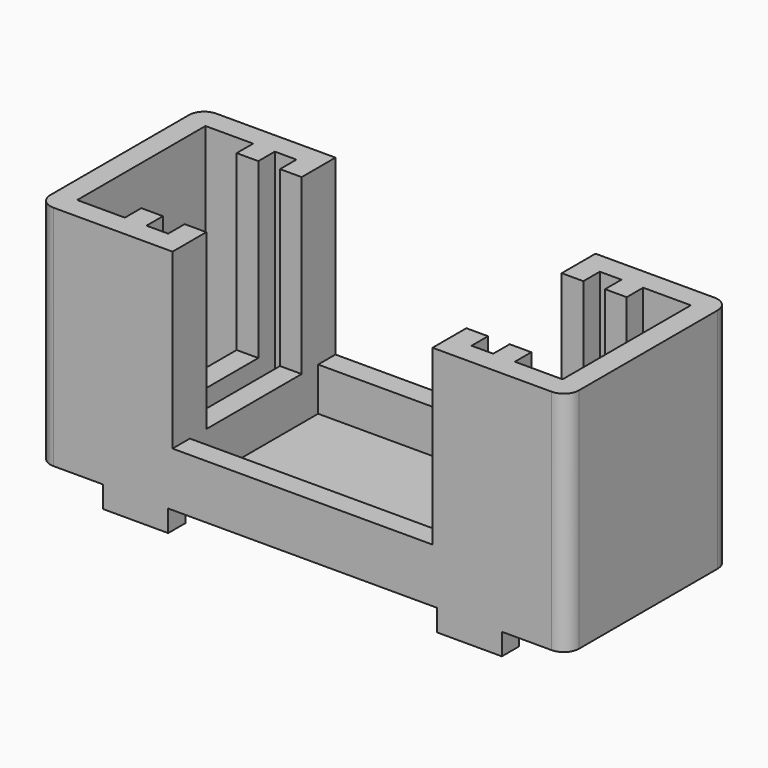
from build123d import *

# Parameters (mm, degrees)
SKETCH_W        = 24.4
SKETCH_H        = 9.4
PAD_DEPTH       = 10.5
SKETCH001_W     = 2.2
SKETCH001_H     = 7.4
SKETCH001_W_2   = 12
SKETCH001_W_3   = 1
POCKET_DEPTH    = 10
POCKET001_DEPTH = 8
SKETCH003_W     = 3
SKETCH003_H     = 1
PAD001_DEPTH    = 1
FILLET_R        = 0.7


with BuildPart() as part:
    # Sketch → Pad (new body)
    with BuildSketch(Plane.XY):
        with Locations((12.2, 4.7)):
            Rectangle(SKETCH_W, SKETCH_H)
    extrude(amount=PAD_DEPTH)

    # Sketch001 (on Face6 of Pad) → Pocket (cut)
    with BuildSketch(Plane.XY.offset(10.5)):
        with Locations((22.3, 4.7)):
            Rectangle(SKETCH001_W, SKETCH001_H)
        with Locations((2.1, 4.7)):
            Rectangle(SKETCH001_W, SKETCH001_H)
        with Locations((12.2, 4.7)):
            Rectangle(SKETCH001_W_2, SKETCH001_H)
        with Locations((4.7, 4.7)):
            Rectangle(SKETCH001_W_3, SKETCH001_H)
        with Locations((19.7, 4.7)):
            Rectangle(SKETCH001_W_3, SKETCH001_H)
    extrude(amount=-POCKET_DEPTH, mode=Mode.SUBTRACT)

    # Sketch002 (on Face5 of Pocket) → Pocket001 (cut)
    with BuildSketch(Plane.XY.offset(10.5)):
        Polygon((6.2, 9.4), (18.2, 9.4), (18.2, 7.45), (22.2, 7.45), (22.2, 1.95), (18.2, 1.95), (18.2, 0), (6.2, 0), (6.2, 1.95), (2.2, 1.95), (2.2, 7.45), (6.2, 7.45), align=None)
    extrude(amount=-POCKET001_DEPTH, mode=Mode.SUBTRACT)

    # Sketch003 (on Face2 of Pocket001) → Pad001 (join)
    with BuildSketch(Plane(origin=(0, 0, 0), x_dir=(1, 0, 0), z_dir=(0, 0, -1))):
        with Locations((4.5, -0.5)):
            Rectangle(SKETCH003_W, SKETCH003_H)
        with Locations((19.9, -0.5)):
            Rectangle(SKETCH003_W, SKETCH003_H)
        with Locations((4.5, -8.9)):
            Rectangle(SKETCH003_W, SKETCH003_H)
        with Locations((19.9, -8.9)):
            Rectangle(SKETCH003_W, SKETCH003_H)
    extrude(amount=PAD001_DEPTH)

    # Fillet
    fillet_edges = [part.edges().sort_by_distance(p)[0] for p in [
        (24.4, 0, 5.25),
        (0, 0, 5.25),
        (24.4, 9.4, 5.25),
        (0, 9.4, 5.25),
    ]]
    fillet(fillet_edges, radius=FILLET_R)


solid = part.part
